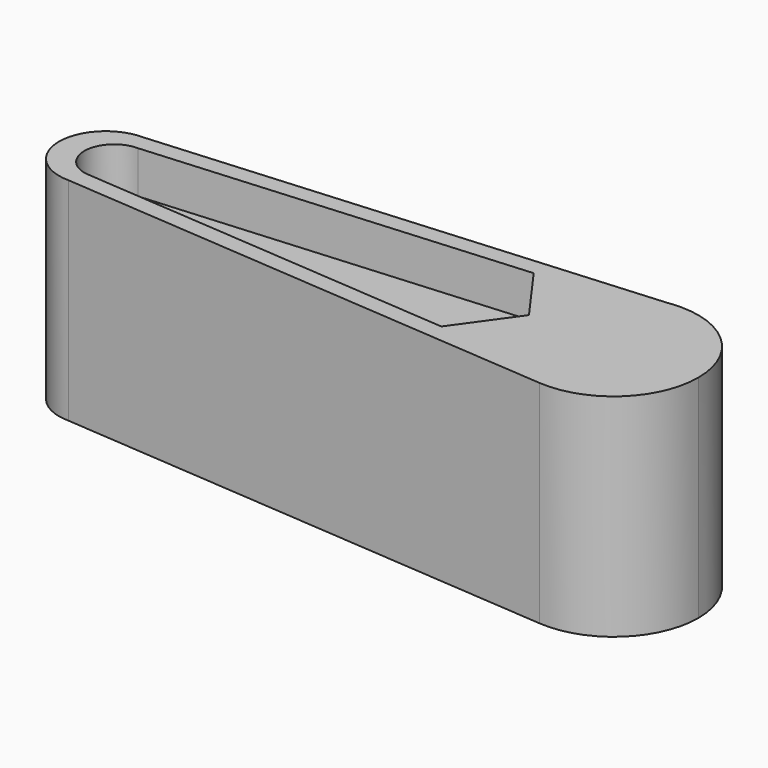
from build123d import *

# Parameters (mm, degrees)
F0_R     = 7
F0_R_2   = 6
F1_DEPTH = 25
F3_START = 20
F3_DEPTH = 10


with BuildPart() as f1:
    # F0 (on Top) → F1 (new body)
    with BuildSketch(Plane.XY):
        with BuildLine():
            Line((-23.5798439344, -6.2340971038), (-10, 0))
            Line((-10, 0), (-23.5798439344, 6.2170174071))
            Line((-23.5798439344, 6.2170174071), (-59.8497580387, 3.4967738493))
            ThreePointArc((-59.8497580387, 3.4967738493), (-63.4999999675, -0.0004767763), (-59.8488053705, -3.496732787))
            Line((-59.8488053705, -3.496732787), (-23.5798439344, -6.2340971038))
        make_face()
        with BuildLine():
            ThreePointArc((-0.7525998222, -9.9716394594), (6.7997794735, -7.3323256277), (10, 0))
            ThreePointArc((10, 0), (7.0710678119, 7.0710678119), (0, 10))
            Line((0, 10), (-1.4916096955, 9.8881292728))
            ThreePointArc((-1.4916096955, 9.8881292728), (-4.2331341707, 9.059833061), (-6.6274556663, 7.4884465272))
            ThreePointArc((-6.6274556663, 7.4884465272), (-9.1179645937, 4.1064244384), (-10, 0))
            ThreePointArc((-10, 0), (-9.1094152791, -4.125354927), (-6.5962893453, -7.5159142407))
            ThreePointArc((-6.5962893453, -7.5159142407), (-3.8741695351, -9.2190460685), (-0.7525998222, -9.9716394594))
        make_face()
        Circle(F0_R, mode=Mode.SUBTRACT)
        Circle(F0_R)
        Circle(F0_R_2, mode=Mode.SUBTRACT)
        Circle(F0_R_2)
        with BuildLine():
            Line((-60, -5.5), (-0.7525998222, -9.9716394594))
            ThreePointArc((-0.7525998222, -9.9716394594), (-3.8741695351, -9.2190460685), (-6.5962893453, -7.5159142407))
            Line((-6.5962893453, -7.5159142407), (-23.5798439344, -6.2340971038))
            Line((-23.5798439344, -6.2340971038), (-59.8488053705, -3.496732787))
            Line((-59.8488053705, -3.496732787), (-60, -5.5))
        make_face()
        with BuildLine():
            ThreePointArc((-6.6274556663, 7.4884465272), (-4.2331341707, 9.059833061), (-1.4916096955, 9.8881292728))
            Line((-1.4916096955, 9.8881292728), (-60, 5.5))
            Line((-60, 5.5), (-59.8497580387, 3.4967738493))
            Line((-59.8497580387, 3.4967738493), (-23.5798439344, 6.2170174071))
            Line((-23.5798439344, 6.2170174071), (-6.6274556663, 7.4884465272))
        make_face()
        with BuildLine():
            Line((-23.5798439344, -6.2340971038), (-6.5962893453, -7.5159142407))
            ThreePointArc((-6.5962893453, -7.5159142407), (-9.1094152791, -4.125354927), (-10, 0))
            Line((-10, 0), (-23.5798439344, -6.2340971038))
        make_face()
        with BuildLine():
            ThreePointArc((-10, 0), (-9.1179645937, 4.1064244384), (-6.6274556663, 7.4884465272))
            Line((-6.6274556663, 7.4884465272), (-23.5798439344, 6.2170174071))
            Line((-23.5798439344, 6.2170174071), (-10, 0))
        make_face()
        with BuildLine():
            ThreePointArc((-60, 5.5), (-65.5, 0), (-60, -5.5))
            Line((-60, -5.5), (-59.8488053705, -3.496732787))
            ThreePointArc((-59.8488053705, -3.496732787), (-63.4999999675, -0.0004767763), (-59.8497580387, 3.4967738493))
            Line((-59.8497580387, 3.4967738493), (-60, 5.5))
        make_face()
        with BuildLine():
            Line((-1.4916096955, 9.8881292728), (0, 10))
            ThreePointArc((0, 10), (-0.7478994824, 9.9719930989), (-1.4916096955, 9.8881292728))
        make_face()
    extrude(amount=F1_DEPTH)

    # F2 (on Top) → F3 (cut)
    with BuildSketch(Plane.XY.offset(F3_START)):
        with BuildLine():
            ThreePointArc((-59, 3.5), (-56.5251262658, 2.4748737342), (-55.5, 0))
            ThreePointArc((-55.5, 0), (-56.5251262658, -2.4748737342), (-59, -3.5))
            Line((-59, -3.5), (-14.8914183851, -6.8290519661))
            Line((-14.8914183851, -6.8290519661), (-10, 0))
            Line((-10, 0), (-14.8914183851, 6.8081436211))
            Line((-14.8914183851, 6.8081436211), (-59, 3.5))
        make_face()
        with BuildLine():
            ThreePointArc((-59, -3.5), (-56.5251262658, -2.4748737342), (-55.5, 0))
            ThreePointArc((-55.5, 0), (-56.5251262658, 2.4748737342), (-59, 3.5))
            ThreePointArc((-59, 3.5), (-62.5, 0), (-59, -3.5))
        make_face()
    extrude(amount=F3_DEPTH, mode=Mode.SUBTRACT)


solid = f1.part
